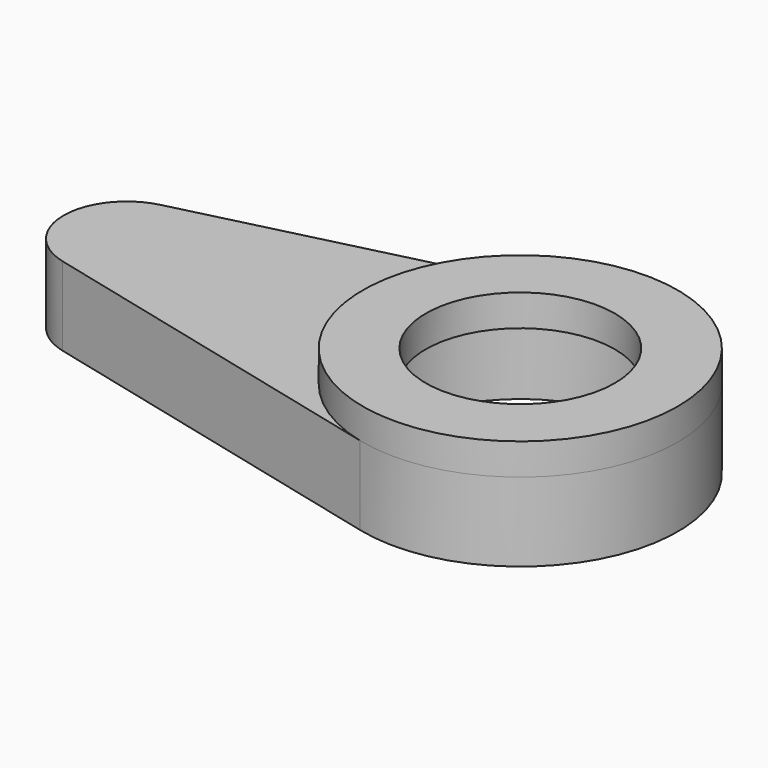
from build123d import *

# Parameters (mm, degrees)
SKETCH_R      = 8
PAD_DEPTH     = 5
SKETCH001_R   = 10
SKETCH001_R_2 = 6
PAD001_DEPTH  = 2


with BuildPart() as part:
    # Sketch → Pad (new body)
    with BuildSketch(Plane.XY):
        with BuildLine():
            ThreePointArc((-2.4, -9.707729), (10, 0), (-2.4, 9.707729))
            Line((-25.96, 3.883092), (-2.4, 9.707729))
            ThreePointArc((-25.96, 3.883092), (-29, 0), (-25.96, -3.883092))
            Line((-2.4, -9.707729), (-25.96, -3.883092))
        make_face()
        Circle(SKETCH_R, mode=Mode.SUBTRACT)
    extrude(amount=PAD_DEPTH)

    # Sketch001 (on Face7 of Pad) → Pad001 (join)
    with BuildSketch(Plane.XY.offset(5)):
        Circle(SKETCH001_R)
        Circle(SKETCH001_R_2, mode=Mode.SUBTRACT)
    extrude(amount=PAD001_DEPTH)


solid = part.part
